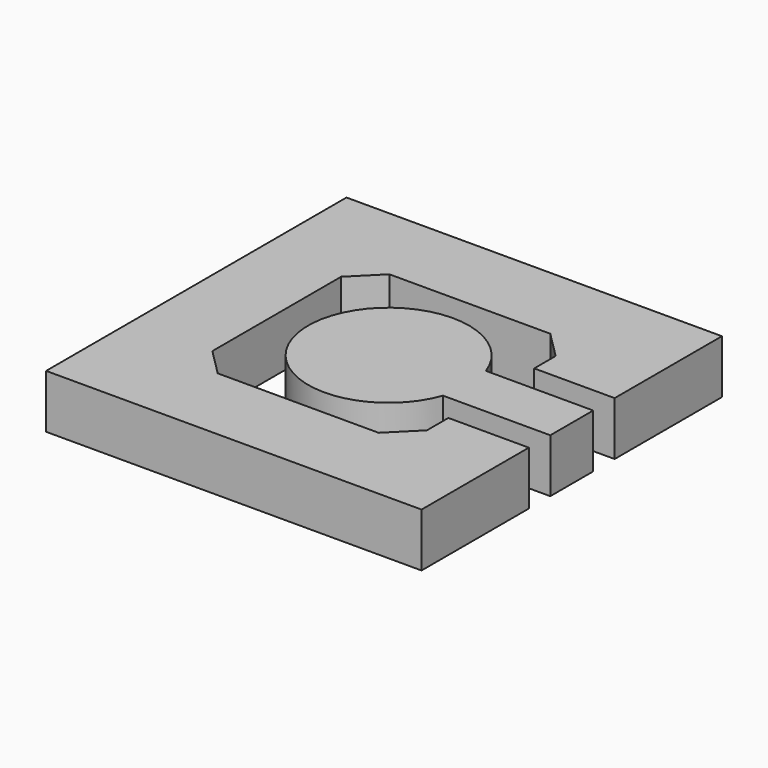
from build123d import *

# Parameters (mm, degrees)
PAD001_DEPTH = 1
PAD_DEPTH    = 1


with BuildPart() as outer_pad:
    # Sketch → Pad001 (new body)
    with BuildSketch(Plane.XY):
        Polygon((-8.5, 1), (-7, 1), (-7, 3.5), (-14, 3.5), (-14, -3.5), (-7, -3.5), (-7, -1), (-8.5, -1), (-8.5, -1.5), (-9, -2), (-12, -2), (-12.5, -1.5), (-12.5, 1.5), (-12, 2), (-9, 2), (-8.5, 1.5), align=None)
    extrude(amount=PAD001_DEPTH)


with BuildPart() as inner_pad:
    # Sketch001 → Pad (new body)
    with BuildSketch(Plane.XY):
        with BuildLine():
            ThreePointArc((-9, 0.5), (-11.914214, 0), (-9, -0.5))
            Line((-7, -0.5), (-9, -0.5))
            Line((-7, 0.5), (-7, -0.5))
            Line((-9, 0.5), (-7, 0.5))
        make_face()
    extrude(amount=PAD_DEPTH)


solid = Compound([outer_pad.part, inner_pad.part])
